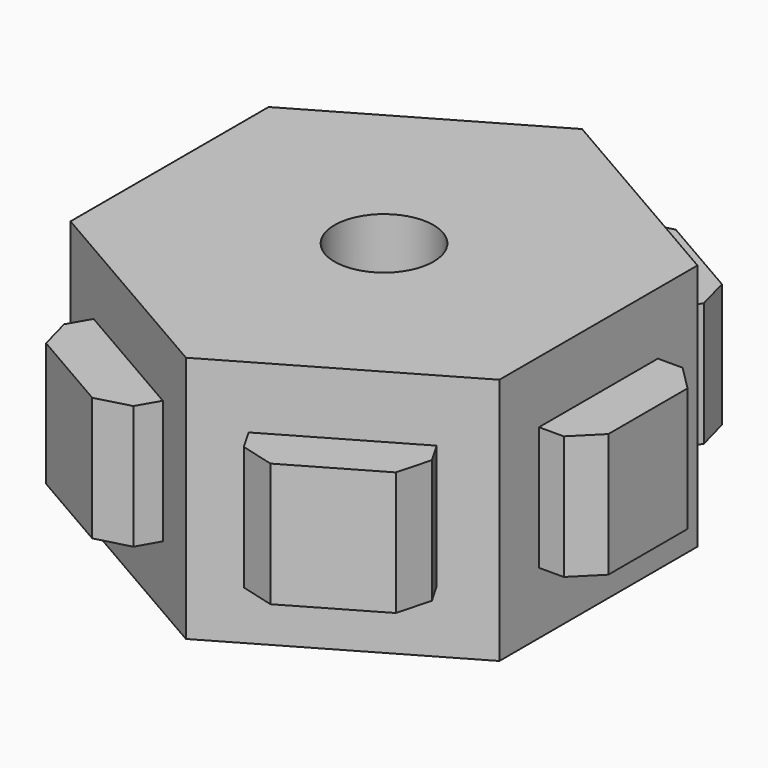
from build123d import *

# Parameters (mm, degrees)
F0_R     = 2
F1_DEPTH = 5
F3_DEPTH = 2.5
F4_SIZE  = 1


with BuildPart() as f1:
    # F0 (on Top) → F1 (new body, symmetric)
    with BuildSketch(Plane.XY):
        Polygon((8.660254, 5), (0, 10), (-8.660254, 5), (-8.660254, -5), (0, -10), (8.660254, -5), align=None)
        Circle(F0_R, mode=Mode.SUBTRACT)
    extrude(amount=F1_DEPTH, both=True)

    # F2 (on Top) → F3 (join, symmetric)
    with BuildSketch(Plane.XY):
        Polygon((10.660254, -3), (10.660254, 0), (10.660254, 3), (8.660254, 3), (8.660254, 0), (8.660254, -3), align=None)
        Polygon((7.928203, 7.732051), (5.330127, 9.232051), (2.732051, 10.732051), (1.732051, 9), (4.330127, 7.5), (6.928203, 6), align=None)
        Polygon((-2.732051, 10.732051), (-5.330127, 9.232051), (-7.928203, 7.732051), (-6.928203, 6), (-4.330127, 7.5), (-1.732051, 9), align=None)
        Polygon((-10.660254, 3), (-10.660254, 0), (-10.660254, -3), (-8.660254, -3), (-8.660254, 0), (-8.660254, 3), align=None)
        Polygon((-7.928203, -7.732051), (-5.330127, -9.232051), (-2.732051, -10.732051), (-1.732051, -9), (-4.330127, -7.5), (-6.928203, -6), align=None)
        Polygon((2.732051, -10.732051), (5.330127, -9.232051), (7.928203, -7.732051), (6.928203, -6), (4.330127, -7.5), (1.732051, -9), align=None)
    extrude(amount=F3_DEPTH, both=True)

    # F4
    f4_edges = [f1.edges().sort_by_distance(p)[0] for p in [
        (10.660254, 3, 0),
        (10.660254, -3, 0),
        (7.928203, -7.732051, 0),
        (2.732051, -10.732051, 0),
        (-2.732051, -10.732051, 0),
        (-7.928203, -7.732051, 0),
        (-10.660254, -3, 0),
        (-10.660254, 3, 0),
        (-7.928203, 7.732051, 0),
        (-2.732051, 10.732051, 0),
        (2.732051, 10.732051, 0),
        (7.928203, 7.732051, 0),
    ]]
    chamfer(f4_edges, length=F4_SIZE)


solid = f1.part
